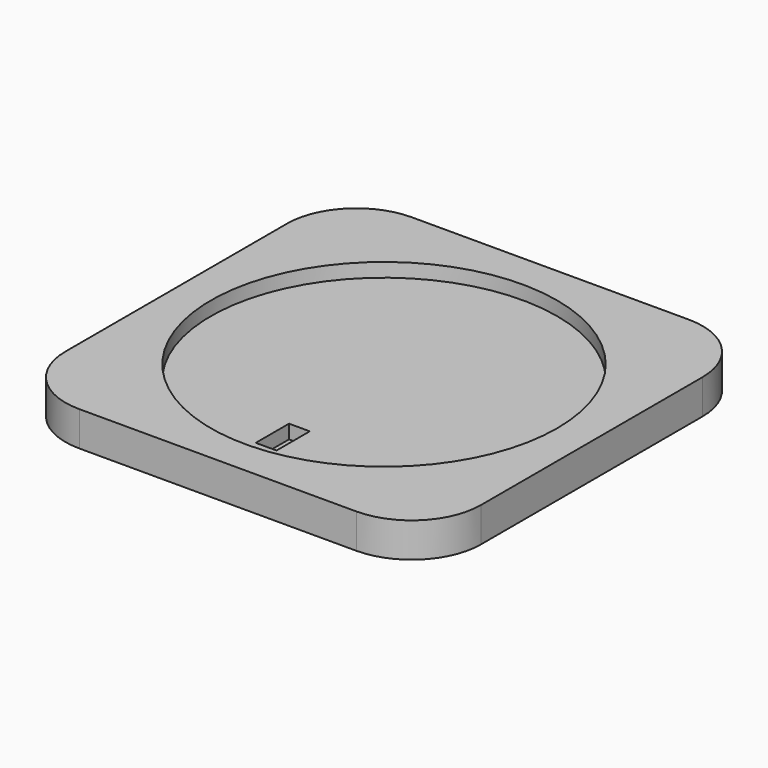
from build123d import *

# Parameters (mm, degrees)
F0_W     = 60
F0_H     = 60
F0_R     = 25
F1_DEPTH = 5
F2_DEPTH = 3
F3_R     = 10
F4_W     = 3
F4_H     = 6
F5_DEPTH = 2


with BuildPart() as f1:
    # F0 (on Top) → F1 (new body)
    with BuildSketch(Plane.XY):
        with Locations((-50.299739, 22.454603)):
            Rectangle(F0_W, F0_H)
        with Locations((-50.299739, 22.454603)):
            Circle(F0_R, mode=Mode.SUBTRACT)
    extrude(amount=F1_DEPTH)

    # F0 (on Top) → F2 (join)
    with BuildSketch(Plane.XY):
        with Locations((-50.299739, 22.454603)):
            Circle(F0_R)
    extrude(amount=F2_DEPTH)

    # F3
    f3_edges = [f1.edges().sort_by_distance(p)[0] for p in [
        (-20.299739, -7.545397, 2.5),
        (-80.299739, -7.545397, 2.5),
        (-80.299739, 52.454603, 2.5),
        (-20.299739, 52.454603, 2.5),
    ]]
    fillet(f3_edges, radius=F3_R)

    # F4 (on face) → F5 (cut)
    with BuildSketch(Plane.XY.offset(3)):
        with Locations((-50.516435, 4.454603)):
            Rectangle(F4_W, F4_H)
    extrude(amount=-F5_DEPTH, mode=Mode.SUBTRACT)


solid = f1.part
